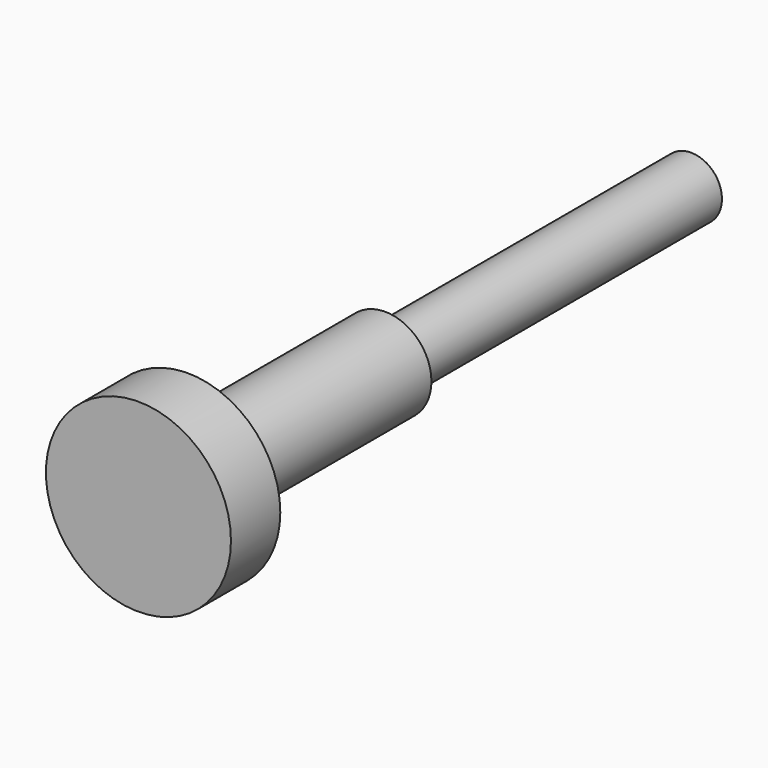
from build123d import *

# Parameters (mm, degrees)
F0_R     = 15
F1_DEPTH = 112
F2_R     = 15
F2_R_2   = 7.5
F3_DEPTH = 102
F4_R     = 7.5
F4_R_2   = 5
F5_DEPTH = 62


with BuildPart() as f1:
    # F0 (on Front) → F1 (new body)
    with BuildSketch(Plane.XZ):
        Circle(F0_R)
    extrude(amount=F1_DEPTH)

    # F2 (on Front) → F3 (cut)
    with BuildSketch(Plane.XZ):
        Circle(F2_R)
        Circle(F2_R_2, mode=Mode.SUBTRACT)
    extrude(amount=F3_DEPTH, mode=Mode.SUBTRACT)

    # F4 (on face) → F5 (cut)
    with BuildSketch(Plane(origin=(0, 0, 0), x_dir=(-1, 0, 0), z_dir=(0, 1, 0))):
        Circle(F4_R)
        Circle(F4_R_2, mode=Mode.SUBTRACT)
    extrude(amount=-F5_DEPTH, mode=Mode.SUBTRACT)


solid = f1.part
